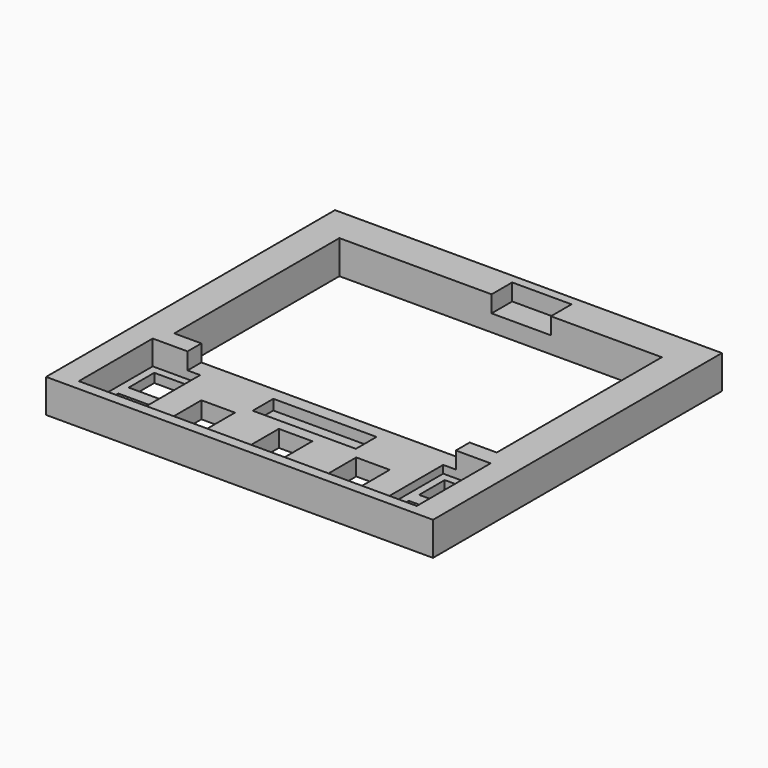
from build123d import *

# Parameters (mm, degrees)
F0_W     = 150
F0_H     = 140
F0_W_2   = 18.4
F0_H_2   = 35.8
F0_W_3   = 13
F0_H_3   = 14.5
F0_W_4   = 40
F0_H_4   = 10
F0_W_5   = 22.4
F0_W_6   = 125
F0_H_5   = 80
F0_W_7   = 12.4
F0_H_6   = 12.4
F1_DEPTH = 2.5
F2_DEPTH = 3.5
F3_W     = 150
F3_H     = 140
F3_W_2   = 18.4
F3_H_2   = 35.8
F3_W_3   = 13
F3_H_3   = 14.5
F3_W_4   = 40
F3_H_4   = 10
F3_W_5   = 125
F3_H_5   = 80
F4_DEPTH = 3
F5_W     = 150
F5_H     = 140
F5_W_2   = 10.5
F5_H_2   = 6.7
F6_DEPTH = 6.5


with BuildPart() as f1:
    # F0 (on Top) → F1 (new body)
    with BuildSketch(Plane.XY):
        with Locations((-4.5338094234, 6.6955923945)):
            Rectangle(F0_W, F0_H)
        with Locations((-60.8338094234, -41.4044076055)):
            Rectangle(F0_W_2, F0_H_2, mode=Mode.SUBTRACT)
        with Locations((-34.5338094234, -43.4044076055)):
            Rectangle(F0_W_3, F0_H_3, mode=Mode.SUBTRACT)
        with Locations((-4.6338094234, -26.8044076055)):
            Rectangle(F0_W_4, F0_H_4, mode=Mode.SUBTRACT)
        with Locations((-4.5338094234, -43.4044076055)):
            Rectangle(F0_W_3, F0_H_3, mode=Mode.SUBTRACT)
        with Locations((25.4661905766, -43.4044076055)):
            Rectangle(F0_W_3, F0_H_3, mode=Mode.SUBTRACT)
        with Locations((51.7661905766, -41.4044076055)):
            Rectangle(F0_W_5, F0_H_2, mode=Mode.SUBTRACT)
        with Locations((-4.5338094234, 23.1955923945)):
            Rectangle(F0_W_6, F0_H_5, mode=Mode.SUBTRACT)
        with Locations((-60.8338094234, -41.4044076055)):
            Rectangle(F0_W_2, F0_H_2)
        with Locations((-60.8338094234, -50.1044076055)):
            Rectangle(F0_W_7, F0_H_6, mode=Mode.SUBTRACT)
        with Locations((-60.8338094234, -32.7044076055)):
            Rectangle(F0_W_7, F0_H_6, mode=Mode.SUBTRACT)
        with Locations((51.7661905766, -41.4044076055)):
            Rectangle(F0_W_5, F0_H_2)
        with Locations((51.7661905766, -50.1044076055)):
            Rectangle(F0_W_7, F0_H_6, mode=Mode.SUBTRACT)
        with Locations((51.7661905766, -32.7044076055)):
            Rectangle(F0_W_7, F0_H_6, mode=Mode.SUBTRACT)
        with Locations((-4.6338094234, -26.8044076055)):
            Rectangle(F0_W_4, F0_H_4)
    extrude(amount=F1_DEPTH)

    # F0 (on Top) → F2 (join)
    with BuildSketch(Plane.XY):
        with Locations((-4.5338094234, 6.6955923945)):
            Rectangle(F0_W, F0_H)
        with Locations((-60.8338094234, -41.4044076055)):
            Rectangle(F0_W_2, F0_H_2, mode=Mode.SUBTRACT)
        with Locations((-34.5338094234, -43.4044076055)):
            Rectangle(F0_W_3, F0_H_3, mode=Mode.SUBTRACT)
        with Locations((-4.6338094234, -26.8044076055)):
            Rectangle(F0_W_4, F0_H_4, mode=Mode.SUBTRACT)
        with Locations((-4.5338094234, -43.4044076055)):
            Rectangle(F0_W_3, F0_H_3, mode=Mode.SUBTRACT)
        with Locations((25.4661905766, -43.4044076055)):
            Rectangle(F0_W_3, F0_H_3, mode=Mode.SUBTRACT)
        with Locations((51.7661905766, -41.4044076055)):
            Rectangle(F0_W_5, F0_H_2, mode=Mode.SUBTRACT)
        with Locations((-4.5338094234, 23.1955923945)):
            Rectangle(F0_W_6, F0_H_5, mode=Mode.SUBTRACT)
        with Locations((-60.8338094234, -41.4044076055)):
            Rectangle(F0_W_2, F0_H_2)
        with Locations((-60.8338094234, -50.1044076055)):
            Rectangle(F0_W_7, F0_H_6, mode=Mode.SUBTRACT)
        with Locations((-60.8338094234, -32.7044076055)):
            Rectangle(F0_W_7, F0_H_6, mode=Mode.SUBTRACT)
        with Locations((51.7661905766, -41.4044076055)):
            Rectangle(F0_W_5, F0_H_2)
        with Locations((51.7661905766, -50.1044076055)):
            Rectangle(F0_W_7, F0_H_6, mode=Mode.SUBTRACT)
        with Locations((51.7661905766, -32.7044076055)):
            Rectangle(F0_W_7, F0_H_6, mode=Mode.SUBTRACT)
    extrude(amount=F2_DEPTH)

    # F3 (on face) → F4 (join)
    with BuildSketch(Plane.XY.offset(3.5)):
        with Locations((-4.5338094234, 6.6955923945)):
            Rectangle(F3_W, F3_H)
        with Locations((-60.8338094234, -41.4044076055)):
            Rectangle(F3_W_2, F3_H_2, mode=Mode.SUBTRACT)
        with Locations((-34.5338094234, -43.4044076055)):
            Rectangle(F3_W_3, F3_H_3, mode=Mode.SUBTRACT)
        with Locations((-4.6338094234, -26.8044076055)):
            Rectangle(F3_W_4, F3_H_4, mode=Mode.SUBTRACT)
        with Locations((-4.5338094234, -43.4044076055)):
            Rectangle(F3_W_3, F3_H_3, mode=Mode.SUBTRACT)
        with Locations((25.4661905766, -43.4044076055)):
            Rectangle(F3_W_3, F3_H_3, mode=Mode.SUBTRACT)
        with Locations((51.7661905766, -41.4044076055)):
            Rectangle(F3_W_2, F3_H_2, mode=Mode.SUBTRACT)
        with Locations((-4.5338094234, 23.1955923945)):
            Rectangle(F3_W_5, F3_H_5, mode=Mode.SUBTRACT)
    extrude(amount=F4_DEPTH)

    # F5 (on face) → F6 (join)
    with BuildSketch(Plane.XY.offset(6.5)):
        with Locations((-4.5338094234, 6.6955923945)):
            Rectangle(F5_W, F5_H)
        Polygon((-67.0338094234, -23.5044076055), (-67.0338094234, -16.8044076055), (-67.0338094234, 63.1955923945), (-8.0338094234, 63.1955923945), (-8.0338094234, 73.1955923945), (14.9661905766, 73.1955923945), (14.9661905766, 63.1955923945), (57.9661905766, 63.1955923945), (57.9661905766, -16.8044076055), (57.9661905766, -23.5044076055), (60.9661905766, -23.5044076055), (60.9661905766, -59.3044076055), (42.5661905766, -59.3044076055), (-51.6338094234, -59.3044076055), (-70.0338094234, -59.3044076055), (-70.0338094234, -23.5044076055), align=None, mode=Mode.SUBTRACT)
        with Locations((-61.7838094234, -20.1544076055)):
            Rectangle(F5_W_2, F5_H_2)
        with Locations((52.7161905766, -20.1544076055)):
            Rectangle(F5_W_2, F5_H_2)
    extrude(amount=F6_DEPTH)


solid = f1.part
